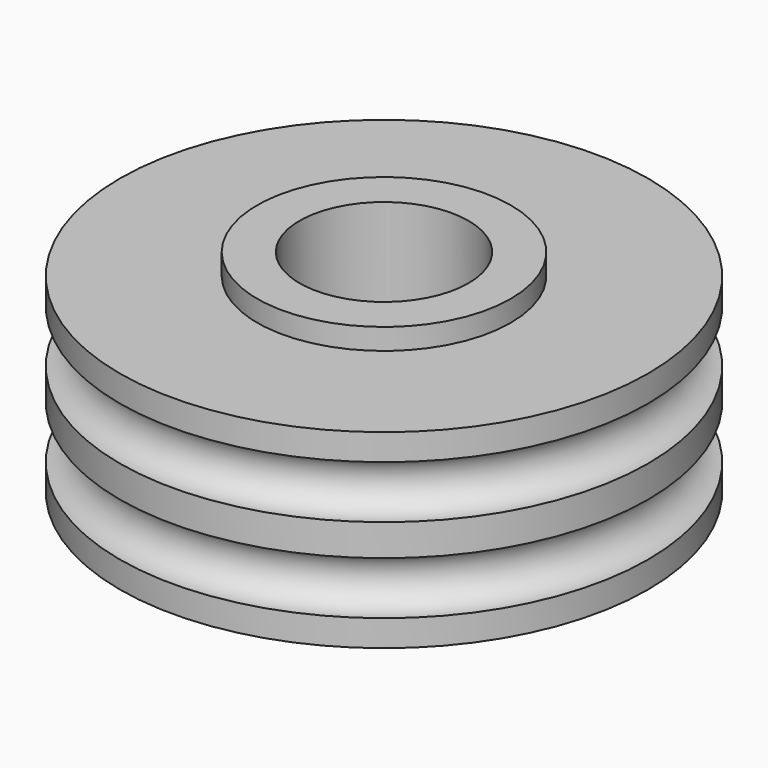
from build123d import *

# Parameters (mm, degrees)
F0_R     = 25
F1_DEPTH = 18
F2_R     = 12
F3_DEPTH = 2
F4_R     = 8
F5_DEPTH = 25
F6_R     = 2.5


with BuildPart() as f1:
    # F0 (on Top) → F1 (new body)
    with BuildSketch(Plane.XY):
        Circle(F0_R)
    extrude(amount=F1_DEPTH)

    # F2 (on face) → F3 (join)
    with BuildSketch(Plane.XY.offset(18)):
        Circle(F2_R)
    extrude(amount=F3_DEPTH)

    # F4 (on face) → F5 (cut)
    with BuildSketch(Plane.XY.offset(20)):
        Circle(F4_R)
    extrude(amount=-F5_DEPTH, mode=Mode.SUBTRACT)

    # F6 (on Front) → F8 (revolve, cut)
    with BuildSketch(Plane.XZ):
        with Locations((25, 13)):
            Circle(F6_R)
        with Locations((25, 5)):
            Circle(F6_R)
    revolve(axis=Axis((0, 0, 7.756283), (0, 0, -1)), mode=Mode.SUBTRACT)


solid = f1.part
